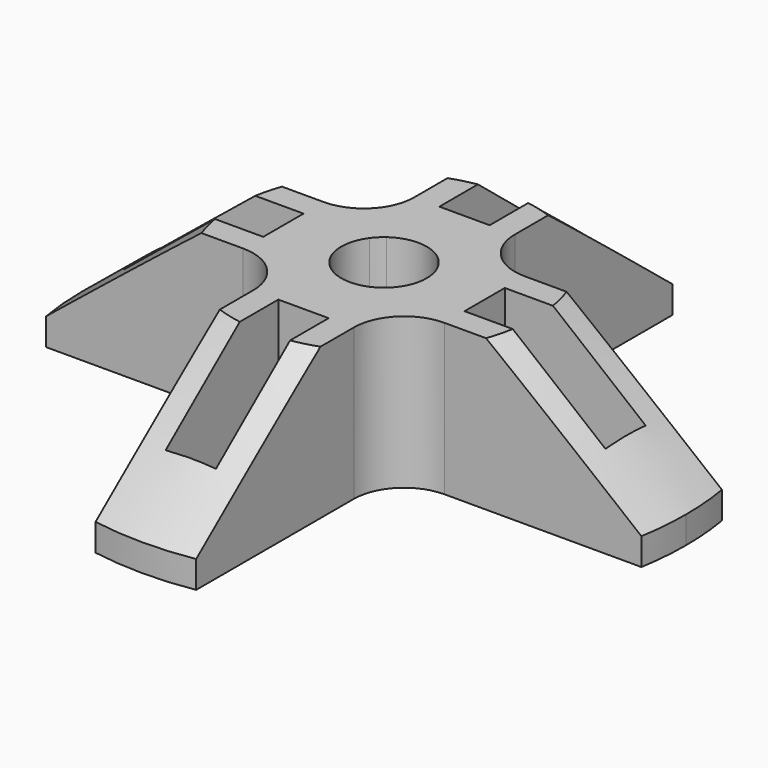
from build123d import *

# Parameters (mm, degrees)
F1_W     = 5
F1_H     = 2.5
F1_W_2   = 2.5
F1_H_2   = 5
F2_DEPTH = 15
F5_R     = 5


with BuildPart() as f2:
    # F1 (on Top) → F2 (new body)
    with BuildSketch(Plane.XY):
        with BuildLine():
            ThreePointArc((-26.0240273593, -5), (-26.5, 0), (-26.0240273593, 5))
            Line((-26.0240273593, 5), (-29.5803989155, 5))
            ThreePointArc((-29.5803989155, 5), (-30, 0), (-29.5803989155, -5))
            Line((-29.5803989155, -5), (-26.0240273593, -5))
        make_face()
        with BuildLine():
            Line((-24, 2.5), (-10, 2.5))
            Line((-10, 2.5), (-10, 5))
            Line((-10, 5), (-26.0240273593, 5))
            ThreePointArc((-26.0240273593, 5), (-26.5, 0), (-26.0240273593, -5))
            Line((-26.0240273593, -5), (-10, -5))
            Line((-10, -5), (-10, -2.5))
            Line((-10, -2.5), (-24, -2.5))
            Line((-24, -2.5), (-24, 2.5))
        make_face()
        with BuildLine():
            Line((5, -10), (2.5, -10))
            Line((2.5, -10), (2.5, -24))
            Line((2.5, -24), (-2.5, -24))
            Line((-2.5, -24), (-2.5, -10))
            Line((-2.5, -10), (-5, -10))
            Line((-5, -10), (-5, -26.0240273593))
            ThreePointArc((-5, -26.0240273593), (0, -26.5), (5, -26.0240273593))
            Line((5, -26.0240273593), (5, -10))
        make_face()
        with BuildLine():
            Line((10, 5), (10, 2.5))
            Line((10, 2.5), (24, 2.5))
            Line((24, 2.5), (24, -2.5))
            Line((24, -2.5), (10, -2.5))
            Line((10, -2.5), (10, -5))
            Line((10, -5), (26.0240273593, -5))
            ThreePointArc((26.0240273593, -5), (26.3807384755, -2.5113019509), (26.5, 0))
            ThreePointArc((26.5, 0), (26.3807384755, 2.5113019509), (26.0240273593, 5))
            Line((26.0240273593, 5), (10, 5))
        make_face()
        with BuildLine():
            Line((2.5, 24), (2.5, 10))
            Line((2.5, 10), (5, 10))
            Line((5, 10), (5, 26.0240273593))
            ThreePointArc((5, 26.0240273593), (0, 26.5), (-5, 26.0240273593))
            Line((-5, 26.0240273593), (-5, 10))
            Line((-5, 10), (-2.5, 10))
            Line((-2.5, 10), (-2.5, 24))
            Line((-2.5, 24), (2.5, 24))
        make_face()
        with BuildLine():
            ThreePointArc((-5, 26.0240273593), (0, 26.5), (5, 26.0240273593))
            Line((5, 26.0240273593), (5, 29.5803989155))
            ThreePointArc((5, 29.5803989155), (0, 30), (-5, 29.5803989155))
            Line((-5, 29.5803989155), (-5, 26.0240273593))
        make_face()
        with BuildLine():
            Line((29.5803989155, 5), (26.0240273593, 5))
            ThreePointArc((26.0240273593, 5), (26.3807384755, 2.5113019509), (26.5, 0))
            ThreePointArc((26.5, 0), (26.3807384755, -2.5113019509), (26.0240273593, -5))
            Line((26.0240273593, -5), (29.5803989155, -5))
            ThreePointArc((29.5803989155, -5), (29.8949156836, -2.5087878084), (30, 0))
            ThreePointArc((30, 0), (29.8949156836, 2.5087878084), (29.5803989155, 5))
        make_face()
        with BuildLine():
            ThreePointArc((2.5, 3.4369317712), (3.00520382, 3.00520382), (3.4369317712, 2.5))
            Line((3.4369317712, 2.5), (5, 2.5))
            Line((5, 2.5), (5, 5))
            Line((5, 5), (2.5, 5))
            Line((2.5, 5), (2.5, 3.4369317712))
        make_face()
        with BuildLine():
            ThreePointArc((-2.5, 3.4369317712), (0, 4.25), (2.5, 3.4369317712))
            Line((2.5, 3.4369317712), (2.5, 5))
            Line((2.5, 5), (-2.5, 5))
            Line((-2.5, 5), (-2.5, 3.4369317712))
        make_face()
        with BuildLine():
            ThreePointArc((-3.4369317712, 2.5), (-3.00520382, 3.00520382), (-2.5, 3.4369317712))
            Line((-2.5, 3.4369317712), (-2.5, 5))
            Line((-2.5, 5), (-5, 5))
            Line((-5, 5), (-5, 2.5))
            Line((-5, 2.5), (-3.4369317712, 2.5))
        make_face()
        with BuildLine():
            ThreePointArc((-3.4369317712, -2.5), (-4.25, 0), (-3.4369317712, 2.5))
            Line((-3.4369317712, 2.5), (-5, 2.5))
            Line((-5, 2.5), (-5, -2.5))
            Line((-5, -2.5), (-3.4369317712, -2.5))
        make_face()
        with BuildLine():
            Line((-2.5, -5), (-2.5, -3.4369317712))
            ThreePointArc((-2.5, -3.4369317712), (-3.00520382, -3.00520382), (-3.4369317712, -2.5))
            Line((-3.4369317712, -2.5), (-5, -2.5))
            Line((-5, -2.5), (-5, -5))
            Line((-5, -5), (-2.5, -5))
        make_face()
        with BuildLine():
            Line((2.5, -5), (2.5, -3.4369317712))
            ThreePointArc((2.5, -3.4369317712), (0, -4.25), (-2.5, -3.4369317712))
            Line((-2.5, -3.4369317712), (-2.5, -5))
            Line((-2.5, -5), (2.5, -5))
        make_face()
        with BuildLine():
            Line((5, -2.5), (3.4369317712, -2.5))
            ThreePointArc((3.4369317712, -2.5), (3.00520382, -3.00520382), (2.5, -3.4369317712))
            Line((2.5, -3.4369317712), (2.5, -5))
            Line((2.5, -5), (5, -5))
            Line((5, -5), (5, -2.5))
        make_face()
        with BuildLine():
            ThreePointArc((3.4369317712, 2.5), (4.041624675, 1.3144466464), (4.25, 0))
            ThreePointArc((4.25, 0), (4.041624675, -1.3144466464), (3.4369317712, -2.5))
            Line((3.4369317712, -2.5), (5, -2.5))
            Line((5, -2.5), (5, 2.5))
            Line((5, 2.5), (3.4369317712, 2.5))
        make_face()
        with BuildLine():
            Line((5, -29.5803989155), (5, -26.0240273593))
            ThreePointArc((5, -26.0240273593), (0, -26.5), (-5, -26.0240273593))
            Line((-5, -26.0240273593), (-5, -29.5803989155))
            ThreePointArc((-5, -29.5803989155), (0, -30), (5, -29.5803989155))
        make_face()
        with Locations((-7.5, 3.75)):
            Rectangle(F1_W, F1_H)
        with BuildLine():
            ThreePointArc((-3.4369317712, 2.5), (-3.00520382, 3.00520382), (-2.5, 3.4369317712))
            Line((-2.5, 3.4369317712), (-2.5, 5))
            Line((-2.5, 5), (-5, 5))
            Line((-5, 5), (-5, 2.5))
            Line((-5, 2.5), (-3.4369317712, 2.5))
        make_face()
        with BuildLine():
            ThreePointArc((2.5, 3.4369317712), (3.00520382, 3.00520382), (3.4369317712, 2.5))
            Line((3.4369317712, 2.5), (5, 2.5))
            Line((5, 2.5), (5, 5))
            Line((5, 5), (2.5, 5))
            Line((2.5, 5), (2.5, 3.4369317712))
        make_face()
        with Locations((7.5, 3.75)):
            Rectangle(F1_W, F1_H)
        with Locations((3.75, -7.5)):
            Rectangle(F1_W_2, F1_H_2)
        with Locations((0, -7.5)):
            Rectangle(F1_W, F1_H_2)
        with Locations((-3.75, -7.5)):
            Rectangle(F1_W_2, F1_H_2)
        with BuildLine():
            Line((5, -2.5), (3.4369317712, -2.5))
            ThreePointArc((3.4369317712, -2.5), (3.00520382, -3.00520382), (2.5, -3.4369317712))
            Line((2.5, -3.4369317712), (2.5, -5))
            Line((2.5, -5), (5, -5))
            Line((5, -5), (5, -2.5))
        make_face()
        with BuildLine():
            Line((-2.5, -5), (-2.5, -3.4369317712))
            ThreePointArc((-2.5, -3.4369317712), (-3.00520382, -3.00520382), (-3.4369317712, -2.5))
            Line((-3.4369317712, -2.5), (-5, -2.5))
            Line((-5, -2.5), (-5, -5))
            Line((-5, -5), (-2.5, -5))
        make_face()
        with Locations((-7.5, -3.75)):
            Rectangle(F1_W, F1_H)
        with Locations((7.5, -3.75)):
            Rectangle(F1_W, F1_H)
        with Locations((3.75, 7.5)):
            Rectangle(F1_W_2, F1_H_2)
        with Locations((0, 7.5)):
            Rectangle(F1_W, F1_H_2)
        with Locations((-7.5, 0)):
            Rectangle(F1_W, F1_H_2)
        with Locations((7.5, 0)):
            Rectangle(F1_W, F1_H_2)
        with Locations((-3.75, 7.5)):
            Rectangle(F1_W_2, F1_H_2)
    extrude(amount=F2_DEPTH)

    # F3 (on Front) → F4 (revolve, cut)
    with BuildSketch(Plane.XZ):
        Polygon((-30, 15), (-30, 2.7), (-15, 15), align=None)
    revolve(axis=Axis((0, 0, 7.5), (0, 0, 1)), mode=Mode.SUBTRACT)

    # F5
    f5_edges = [f2.edges().sort_by_distance(p)[0] for p in [
        (5, 5, 7.5),
        (5, -5, 7.5),
        (-5, -5, 7.5),
        (-5, 5, 7.5),
    ]]
    fillet(f5_edges, radius=F5_R)


solid = f2.part
